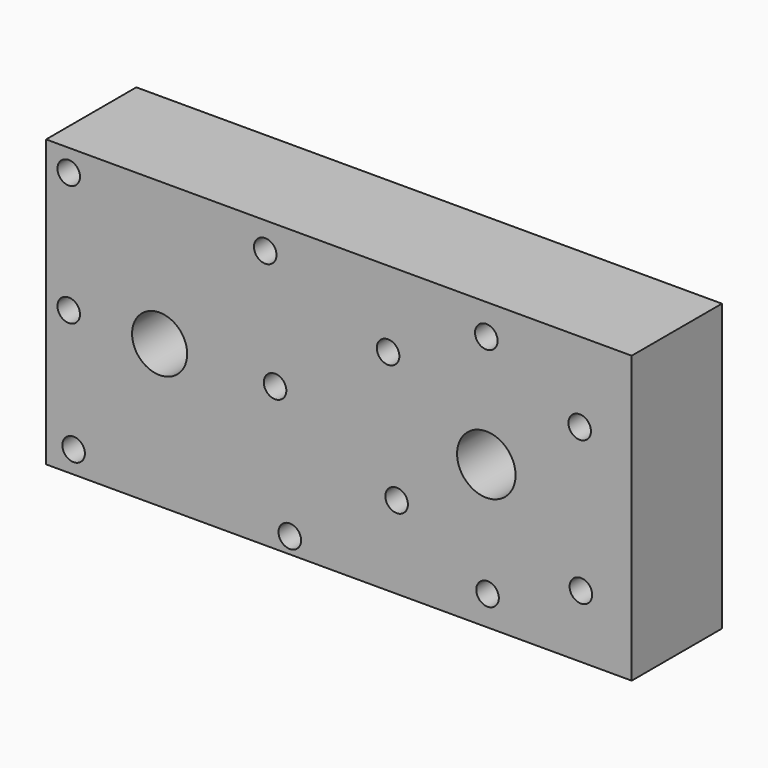
from build123d import *

# Parameters (mm, degrees)
F0_W     = 129.800156
F0_H     = 63.41207
F1_DEPTH = 25
F2_R     = 2.5
F2_R_2   = 6.110234
F2_R_3   = 6.481059
F3_DEPTH = 25


with BuildPart() as f1:
    # F0 (on Front) → F1 (new body)
    with BuildSketch(Plane.XZ):
        Rectangle(F0_W, F0_H)
    extrude(amount=F1_DEPTH)

    # F2 (on face) → F3 (cut)
    with BuildSketch(Plane.XZ.offset(25)):
        with Locations((-59.882496, 26.836699)):
            Circle(F2_R)
        with Locations((-59.882496, 0)):
            Circle(F2_R)
        with Locations((-58.793541, -26.794298)):
            Circle(F2_R)
        with Locations((-39.736845, 0)):
            Circle(F2_R_2)
        with Locations((-16.324326, 25.747746)):
            Circle(F2_R)
        with Locations((-14.146418, 0)):
            Circle(F2_R)
        with Locations((-10.879556, -28.155489)):
            Circle(F2_R)
        with Locations((10.89953, 14.858203)):
            Circle(F2_R)
        with Locations((12.805198, -13.454608)):
            Circle(F2_R)
        with Locations((32.678615, 0)):
            Circle(F2_R_3)
        with Locations((32.678615, 24.93103)):
            Circle(F2_R)
        with Locations((32.950852, -25.160864)):
            Circle(F2_R)
        with Locations((53.368744, 14.041487)):
            Circle(F2_R)
        with Locations((53.64098, -17.810425)):
            Circle(F2_R)
    extrude(amount=-F3_DEPTH, mode=Mode.SUBTRACT)


solid = f1.part
